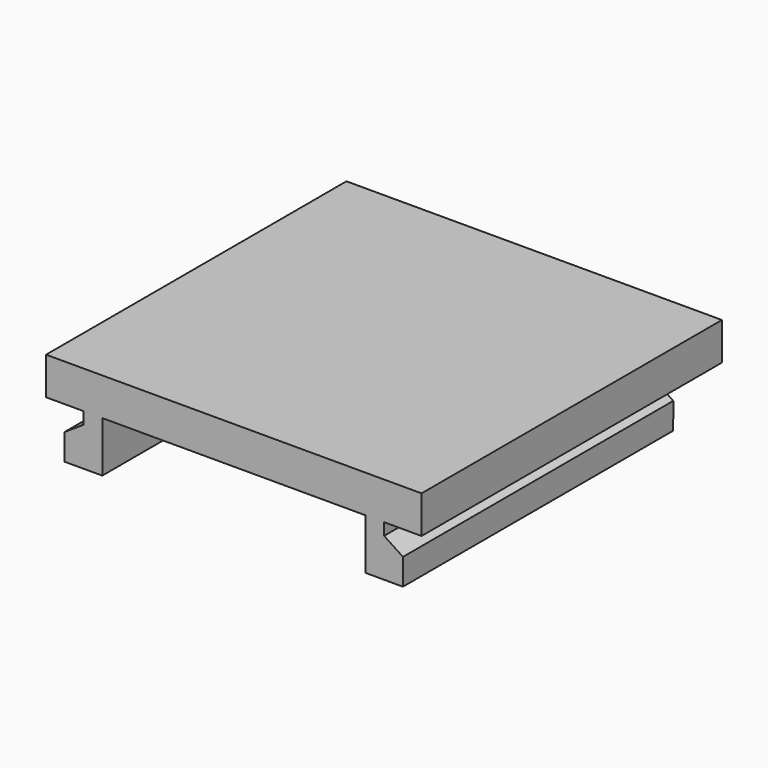
from build123d import *

# Parameters (mm, degrees)
F0_W     = 25.4
F0_H     = 25.4
F1_DEPTH = 2.54
F3_DEPTH = 12.7
F4_W     = 2.540944
F4_H     = 3.556
F5_DEPTH = 12.7


with BuildPart() as f1:
    # F0 (on Top) → F1 (new body)
    with BuildSketch(Plane.XY):
        Rectangle(F0_W, F0_H)
    extrude(amount=-F1_DEPTH)

    # F2 (on Front) → F3 (join, symmetric)
    with BuildSketch(Plane.XZ):
        Polygon((-8.899515, -2.54), (-10.169515, -2.54), (-10.169515, -3.3528), (-11.44146, -4.192284), (-11.439515, -5.970282), (-8.899515, -5.969), align=None)
        Polygon((11.44146, -4.192284), (10.169515, -3.3528), (10.169515, -2.54), (8.899515, -2.54), (8.899515, -5.969), (11.439515, -5.970282), align=None)
    extrude(amount=F3_DEPTH, both=True)

    # F4 (on Right) → F5 (cut, symmetric)
    with BuildSketch(Plane.YZ):
        with Locations((11.429528, -4.318)):
            Rectangle(F4_W, F4_H)
    extrude(amount=F5_DEPTH, both=True, mode=Mode.SUBTRACT)


solid = f1.part
